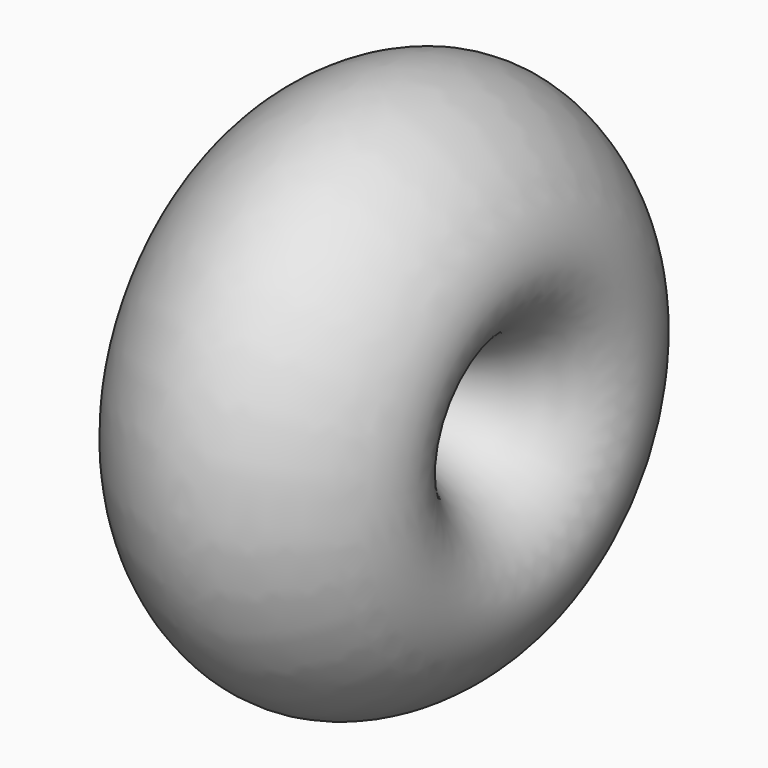
from build123d import *


with BuildPart() as f1:
    # F0 (on Top) → F1 (revolve)
    with BuildSketch(Plane.XY):
        with BuildLine():
            add(Edge.make_bspline(
                [(0, -54.8124204512), (-30.8203017206, -54.7836222933), (-90.7302183368, 3.7705336959), (-0.0567133175, 61.295343873), (91.3471294086, 3.7876255343), (30.8670773408, -54.8412623158), (0, -54.8124204512)],
                knots=[0, 0, 0, 0, 0.2560054955, 0.4995802893, 0.7436059679, 1, 1, 1, 1], degree=3))
        make_face()
    revolve(axis=Axis((9.726e-07, 58.8191494872, 0), (1, 0, 0)))


solid = f1.part
